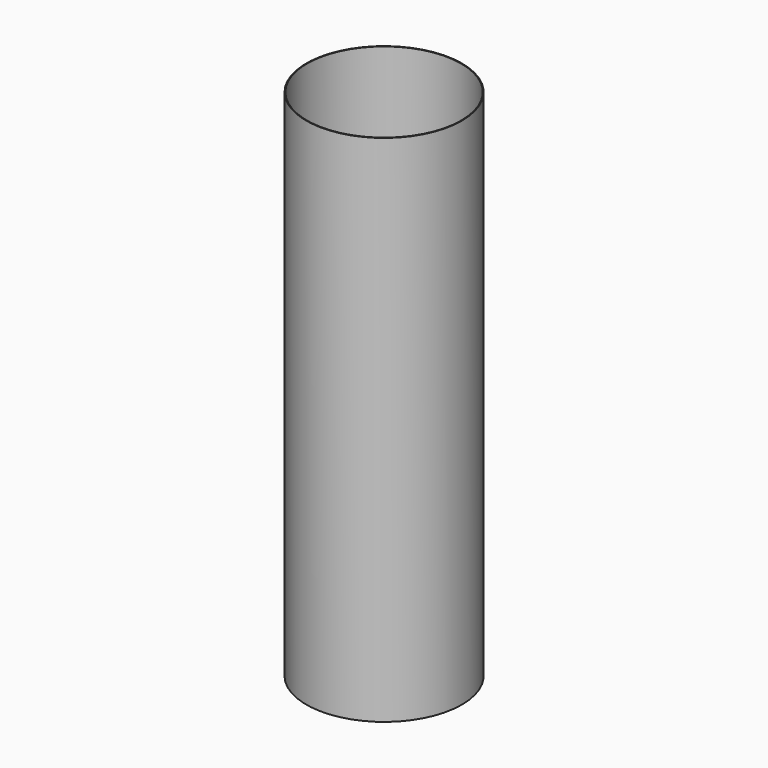
from build123d import *

# Parameters (mm, degrees)
SKETCH_R   = 1512.5
SKETCH_R_2 = 1500
PAD_DEPTH  = 10000


with BuildPart() as part:
    # Sketch → Pad (new body)
    with BuildSketch(Plane.XY):
        Circle(SKETCH_R)
        Circle(SKETCH_R_2, mode=Mode.SUBTRACT)
    extrude(amount=PAD_DEPTH)


solid = part.part
